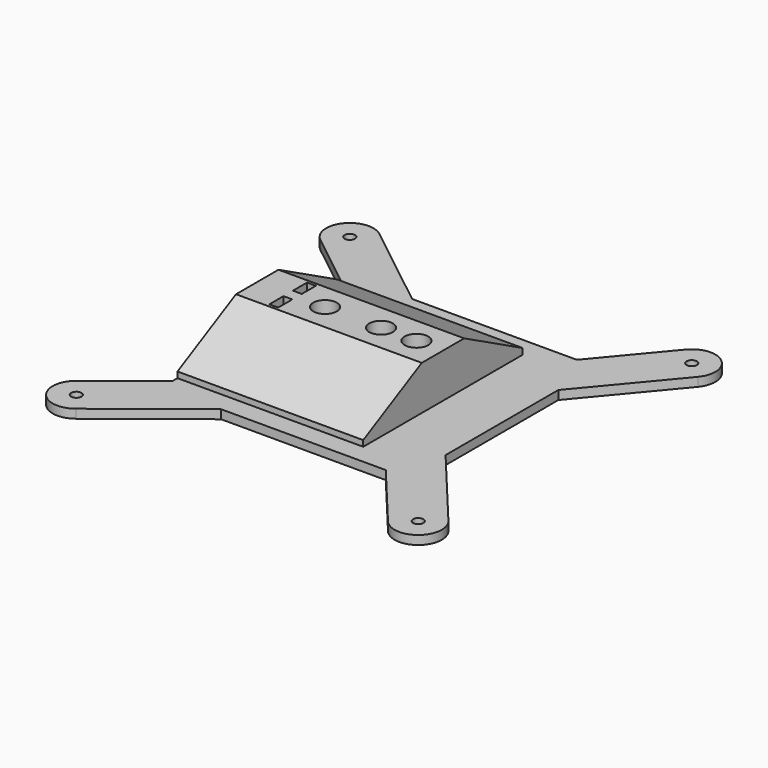
from build123d import *

# Parameters (mm, degrees)
BOX063_W                  = 57
BOX063_H                  = 21
BOX063_DEPTH              = 15
CYLINDER030_R             = 1.75
CYLINDER030_DEPTH         = 24.5
CYLINDER030_PITCH_ANGLE   = 90
CYLINDER031_R             = 3
CYLINDER031_DEPTH         = 21.5
CYLINDER031_PITCH_ANGLE   = 90
FUSION027_PITCH_ANGLE     = -90
FUSION027_PLACEMENT_ANGLE = -180
FUSION024_PITCH_ANGLE     = -90
FUSION024_PLACEMENT_ANGLE = -180
FUSION025_PITCH_ANGLE     = -90
FUSION025_PLACEMENT_ANGLE = -180
BOX029_W                  = 3
BOX029_H                  = 74
BOX029_DEPTH              = 6
BOX029_PITCH_ANGLE        = -90
BOX029_PLACEMENT_ANGLE    = -180
BOX030_W                  = 3
BOX030_H                  = 74
BOX030_DEPTH              = 6
BOX030_PITCH_ANGLE        = -90
BOX030_PLACEMENT_ANGLE    = -180
FUSION026_PITCH_ANGLE     = -90
FUSION026_PLACEMENT_ANGLE = -180
FUSION056_ROLL_ANGLE      = -90
FUSION056_PLACEMENT_ANGLE = 90
CYLINDER_R                = 4
CYLINDER_DEPTH            = 60
CYLINDER063_R             = 1.75
CYLINDER063_DEPTH         = 60
CYLINDER061_R             = 4
CYLINDER061_DEPTH         = 60
CYLINDER060_R             = 4
CYLINDER060_DEPTH         = 60
CYLINDER062_R             = 1.75
CYLINDER062_DEPTH         = 60
SKETCH009_R               = 1.75
PAD007_DEPTH              = 3
PAD008_DEPTH              = 63


with BuildPart() as cube066:
    # Box063 → Box063 (new body)
    with BuildSketch(Plane(origin=(-93, -10.5, -6), x_dir=(1, 0, 0), z_dir=(0, 0, 1))):
        with Locations((28.5, 10.5)):
            Rectangle(BOX063_W, BOX063_H)
    extrude(amount=BOX063_DEPTH)


with BuildPart() as joint_d014:
    # Cylinder030 → Cylinder030 (new body)
    with BuildSketch(Plane.XY):
        Circle(CYLINDER030_R)
    extrude(amount=CYLINDER030_DEPTH)


with BuildPart() as joint_d014_1:
    # Cylinder030 pitch: moved
    add(joint_d014.part.rotate(Axis((0, 0, 0), (0, 1, 0)), CYLINDER030_PITCH_ANGLE))


with BuildPart() as joint_d014_2:
    # Cylinder030 placement: moved
    add(joint_d014_1.part.moved(Location((16, -24.5, 7))))


with BuildPart() as joint_d015:
    # Cylinder031 → Cylinder031 (new body)
    with BuildSketch(Plane.XY):
        Circle(CYLINDER031_R)
    extrude(amount=CYLINDER031_DEPTH)


with BuildPart() as joint_d015_1:
    # Cylinder031 pitch: moved
    add(joint_d015.part.rotate(Axis((0, 0, 0), (0, 1, 0)), CYLINDER031_PITCH_ANGLE))


with BuildPart() as joint_d015_2:
    # Cylinder031 placement: moved
    add(joint_d015_1.part.moved(Location((37, -24.5, 7))))


with BuildPart() as fusion027:
    # Fusion027 base: copy of Joint-D015
    add(joint_d015_2.part)

    # Fusion027: union Joint-D014
    add(joint_d014_2.part)


with BuildPart() as fusion027_1:
    # Fusion027 pitch: moved
    add(fusion027.part.rotate(Axis((0, 0, 0), (0, 1, 0)), FUSION027_PITCH_ANGLE))


with BuildPart() as fusion027_2:
    # Fusion027 placement: moved
    add(fusion027_1.part.moved(Location((-2, -39.5, 0))).rotate(Axis((-2, -39.5, 0), (0, 0, 1)), FUSION027_PLACEMENT_ANGLE))


with BuildPart() as fusion024:
    # Fusion024 base: copy of Joint-D015
    add(joint_d015_2.part)

    # Fusion024: union Joint-D014
    add(joint_d014_2.part)


with BuildPart() as fusion024_1:
    # Fusion024 pitch: moved
    add(fusion024.part.rotate(Axis((0, 0, 0), (0, 1, 0)), FUSION024_PITCH_ANGLE))


with BuildPart() as fusion024_2:
    # Fusion024 placement: moved
    add(fusion024_1.part.moved(Location((-12, 9.5, 0))).rotate(Axis((-12, 9.5, 0), (0, 0, 1)), FUSION024_PLACEMENT_ANGLE))


with BuildPart() as fusion025:
    # Fusion025 base: copy of Joint-D015
    add(joint_d015_2.part)

    # Fusion025: union Joint-D014
    add(joint_d014_2.part)


with BuildPart() as fusion025_1:
    # Fusion025 pitch: moved
    add(fusion025.part.rotate(Axis((0, 0, 0), (0, 1, 0)), FUSION025_PITCH_ANGLE))


with BuildPart() as fusion025_2:
    # Fusion025 placement: moved
    add(fusion025_1.part.moved(Location((-2, 9.5, 0))).rotate(Axis((-2, 9.5, 0), (0, 0, 1)), FUSION025_PLACEMENT_ANGLE))


with BuildPart() as cube047:
    # Box029 → Box029 (new body)
    with BuildSketch(Plane.XY):
        with Locations((1.5, 37)):
            Rectangle(BOX029_W, BOX029_H)
    extrude(amount=BOX029_DEPTH)


with BuildPart() as cube047_1:
    # Box029 pitch: moved
    add(cube047.part.rotate(Axis((0, 0, 0), (0, 1, 0)), BOX029_PITCH_ANGLE))


with BuildPart() as cube047_2:
    # Box029 placement: moved
    add(cube047_1.part.moved(Location((-8, 41.5, 18.5))).rotate(Axis((-8, 41.5, 18.5), (0, 0, 1)), BOX029_PLACEMENT_ANGLE))


with BuildPart() as cube048:
    # Box030 → Box030 (new body)
    with BuildSketch(Plane.XY):
        with Locations((1.5, 37)):
            Rectangle(BOX030_W, BOX030_H)
    extrude(amount=BOX030_DEPTH)


with BuildPart() as cube048_1:
    # Box030 pitch: moved
    add(cube048.part.rotate(Axis((0, 0, 0), (0, 1, 0)), BOX030_PITCH_ANGLE))


with BuildPart() as cube048_2:
    # Box030 placement: moved
    add(cube048_1.part.moved(Location((2, 41.5, 18.5))).rotate(Axis((2, 41.5, 18.5), (0, 0, 1)), BOX030_PLACEMENT_ANGLE))


with BuildPart() as fusion056:
    # Fusion026 base: copy of Joint-D015
    add(joint_d015_2.part)

    # Fusion026: union Joint-D014
    add(joint_d014_2.part)


with BuildPart() as fusion056_1:
    # Fusion026 pitch: moved
    add(fusion056.part.rotate(Axis((0, 0, 0), (0, 1, 0)), FUSION026_PITCH_ANGLE))


with BuildPart() as fusion056_2:
    # Fusion026 placement: moved
    add(fusion056_1.part.moved(Location((-12, -39.5, 0))).rotate(Axis((-12, -39.5, 0), (0, 0, 1)), FUSION026_PLACEMENT_ANGLE))

    # Fusion056: union Fusion027, Fusion024, Fusion025, Cube047, Cube048
    add(fusion027_2.part)
    add(fusion024_2.part)
    add(fusion025_2.part)
    add(cube047_2.part)
    add(cube048_2.part)


with BuildPart() as fusion056_3:
    # Fusion056 roll: moved
    add(fusion056_2.part.rotate(Axis((0, 0, 0), (1, 0, 0)), FUSION056_ROLL_ANGLE))


with BuildPart() as fusion056_4:
    # Fusion056 placement: moved
    add(fusion056_3.part.moved(Location((-30, 0, -2))).rotate(Axis((-30, 0, -2), (0, 0, 1)), FUSION056_PLACEMENT_ANGLE))


with BuildPart() as cylinder:
    # Cylinder → Cylinder (new body)
    with BuildSketch(Plane(origin=(-39, 0, -20), x_dir=(1, 0, 0), z_dir=(0, 0, 1))):
        Circle(CYLINDER_R)
    extrude(amount=CYLINDER_DEPTH)


with BuildPart() as cylinder157:
    # Cylinder063 → Cylinder063 (new body)
    with BuildSketch(Plane(origin=(-8, 0, -12), x_dir=(1, 0, 0), z_dir=(0, 0, 1))):
        Circle(CYLINDER063_R)
    extrude(amount=CYLINDER063_DEPTH)


with BuildPart() as cylinder155:
    # Cylinder061 → Cylinder061 (new body)
    with BuildSketch(Plane(origin=(-8, 0, 4), x_dir=(1, 0, 0), z_dir=(0, 0, 1))):
        Circle(CYLINDER061_R)
    extrude(amount=CYLINDER061_DEPTH)


with BuildPart() as cylinder060:
    # Cylinder060 → Cylinder060 (new body)
    with BuildSketch(Plane(origin=(-20, 0, 4), x_dir=(1, 0, 0), z_dir=(0, 0, 1))):
        Circle(CYLINDER060_R)
    extrude(amount=CYLINDER060_DEPTH)


with BuildPart() as fusion073:
    # Cylinder062 → Cylinder062 (new body)
    with BuildSketch(Plane(origin=(-20, 0, -12), x_dir=(1, 0, 0), z_dir=(0, 0, 1))):
        Circle(CYLINDER062_R)
    extrude(amount=CYLINDER062_DEPTH)

    # Fusion073: union Cylinder157, Cylinder155, Cylinder060
    add(cylinder157.part)
    add(cylinder155.part)
    add(cylinder060.part)


with BuildPart() as pad007:
    # Sketch009 → Pad007 (new body)
    with BuildSketch(Plane.XY.offset(2)):
        with BuildLine():
            Line((-81.932444, 51.697807), (-62, 36))
            Line((-62, 36), (-62, -36))
            Line((-62, -36), (-81.932444, -51.697807))
            ThreePointArc((-81.932444, -51.697807), (-83.267699, -62.932452), (-72.033053, -64.267694))
            Line((-72.033053, -64.267694), (-41.853791, -40.5))
            Line((-41.853791, -40.5), (14, -40.5))
            Line((14, -40.5), (32.837002, -63.104251))
            ThreePointArc((32.837002, -63.104251), (44.104251, -64.12851), (45.12851, -52.861261))
            Line((21, -23.907244), (45.12851, -52.861261))
            Line((21, 23.907244), (21, -23.907244))
            Line((45.12851, 52.861262), (21, 23.907244))
            ThreePointArc((45.12851, 52.861262), (44.104251, 64.12851), (32.837002, 63.104251))
            Line((14, 40.5), (32.837002, 63.104251))
            Line((-41.853791, 40.5), (14, 40.5))
            Line((-72.033053, 64.267694), (-41.853791, 40.5))
            ThreePointArc((-72.033053, 64.267694), (-83.267699, 62.932452), (-81.932444, 51.697807))
        make_face()
        with Locations((-76.982756, 57.982756)):
            Circle(SKETCH009_R, mode=Mode.SUBTRACT)
        with Locations((-76.982756, -57.982756)):
            Circle(SKETCH009_R, mode=Mode.SUBTRACT)
        with Locations((38.982756, 57.982756)):
            Circle(SKETCH009_R, mode=Mode.SUBTRACT)
        with Locations((38.982756, -57.982756)):
            Circle(SKETCH009_R, mode=Mode.SUBTRACT)
    extrude(amount=PAD007_DEPTH)


with BuildPart() as cut104:
    # Sketch010 → Pad008 (new body)
    with BuildSketch(Plane(origin=(-62, 2, 0), x_dir=(0, 1, 0), z_dir=(1, 0, 0))):
        Polygon((-35.811086, 2), (-35.811086, 7), (-11, 19.977288), (7, 19.977288), (31.811086, 7), (31.811086, 2), align=None)
    extrude(amount=PAD008_DEPTH)

    # Fusion074: union Pad007
    add(pad007.part)

    # Cut101: cut Fusion073
    add(fusion073.part, mode=Mode.SUBTRACT)

    # Cut102: cut Cylinder
    add(cylinder.part, mode=Mode.SUBTRACT)

    # Cut103: cut Fusion056
    add(fusion056_4.part, mode=Mode.SUBTRACT)

    # Cut104: cut Cube066
    add(cube066.part, mode=Mode.SUBTRACT)


solid = cut104.part
